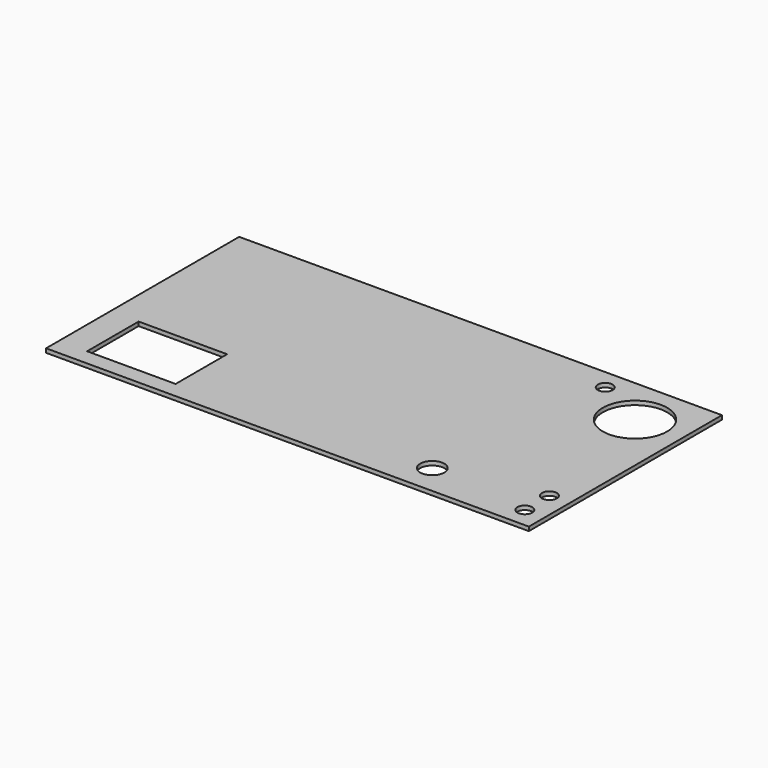
from build123d import *

# Parameters (mm, degrees)
F0_W     = 1200
F0_H     = 600
F0_W_2   = 220
F0_H_2   = 160
F0_R     = 18.5
F0_R_2   = 30
F0_R_3   = 80
F1_DEPTH = 10


with BuildPart() as f1:
    # F0 (on Top) → F1 (new body)
    with BuildSketch(Plane.XY):
        Rectangle(F0_W, F0_H)
        with Locations((-420, -180)):
            Rectangle(F0_W_2, F0_H_2, mode=Mode.SUBTRACT)
        with Locations((550, -250)):
            Circle(F0_R, mode=Mode.SUBTRACT)
        with Locations((300, -225)):
            Circle(F0_R_2, mode=Mode.SUBTRACT)
        with Locations((550, -173.5)):
            Circle(F0_R, mode=Mode.SUBTRACT)
        with Locations((480, 180)):
            Circle(F0_R_3, mode=Mode.SUBTRACT)
        with Locations((350, 250)):
            Circle(F0_R, mode=Mode.SUBTRACT)
    extrude(amount=F1_DEPTH)


solid = f1.part
